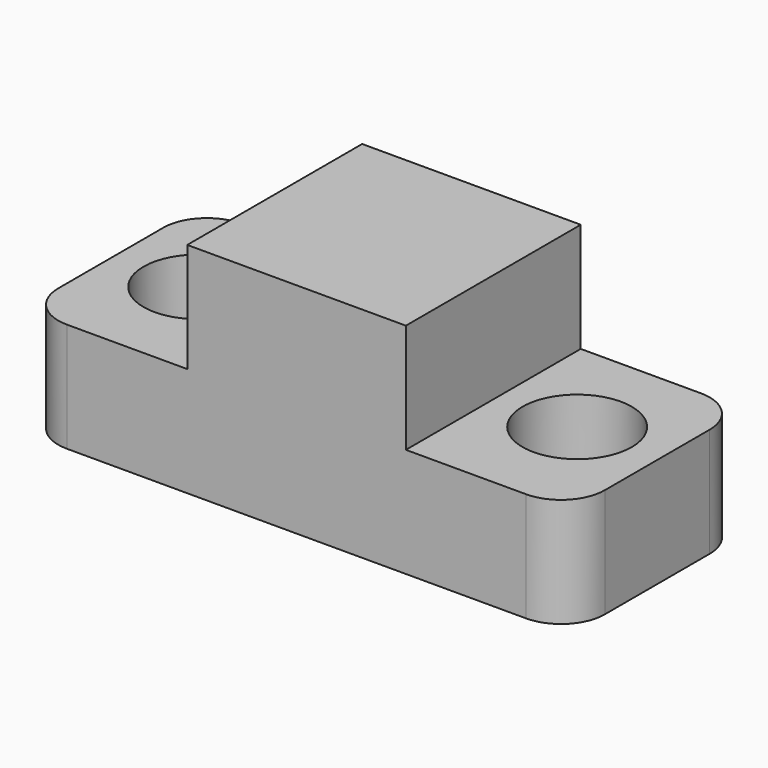
from build123d import *

# Parameters (mm, degrees)
F1_DEPTH = 25.4
F2_R     = 5.08
F3_R     = 5.08
F5_D     = 12.7


with BuildPart() as f1:
    # F0 (on Front) → F1 (new body)
    with BuildSketch(Plane.XZ):
        Polygon((0, 12.7), (0, 0), (31.75, 0), (31.75, 25.4), (19.05, 25.4), (19.05, 12.7), align=None)
    extrude(amount=F1_DEPTH)

    # F2
    f2_edges = [f1.edges().sort_by_distance(p)[0] for p in [
        (0, -25.4, 6.35),
    ]]
    fillet(f2_edges, radius=F2_R)

    # F3
    f3_edges = [f1.edges().sort_by_distance(p)[0] for p in [
        (0, 0, 6.35),
    ]]
    fillet(f3_edges, radius=F3_R)

    # F5 (through all)
    with Locations(Plane.XY.offset(12.7)):
        with Locations((9.731116, -12.168982)):
            Hole(F5_D / 2)

    # F6: F1 across face


with BuildPart() as f1_1:
    add(f1.part)
    add(f1.part.mirror(Plane(origin=(31.75, -12.7, 12.7), x_dir=(0, 1, 0), z_dir=(1, 0, 0))))


solid = f1_1.part
